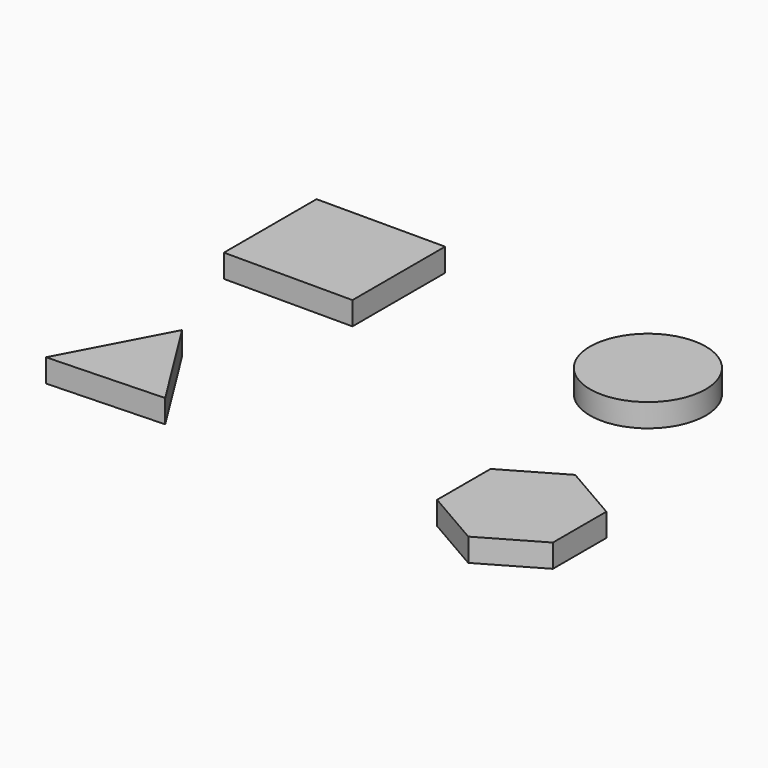
from build123d import *

# Parameters (mm, degrees)
F0_W     = 11.103499
F0_H     = 10
F0_R     = 5
F1_DEPTH = 2


with BuildPart() as f1:
    # F0 (on Top) → F1 (new body)
    with BuildSketch(Plane.XY):
        Polygon((-20.023794, -5.395483), (-24.699838, -14.234861), (-14.70669, -13.864745), align=None)
        with Locations((-19.333147, 10.196263)):
            Rectangle(F0_W, F0_H)
        with Locations((7.962955, 9.91525)):
            Circle(F0_R)
        Polygon((18.896281, -14.012453), (18.896281, -8.23895), (13.896281, -5.352199), (8.896281, -8.23895), (8.896281, -14.012453), (13.896281, -16.899204), align=None)
    extrude(amount=F1_DEPTH)


solid = f1.part
